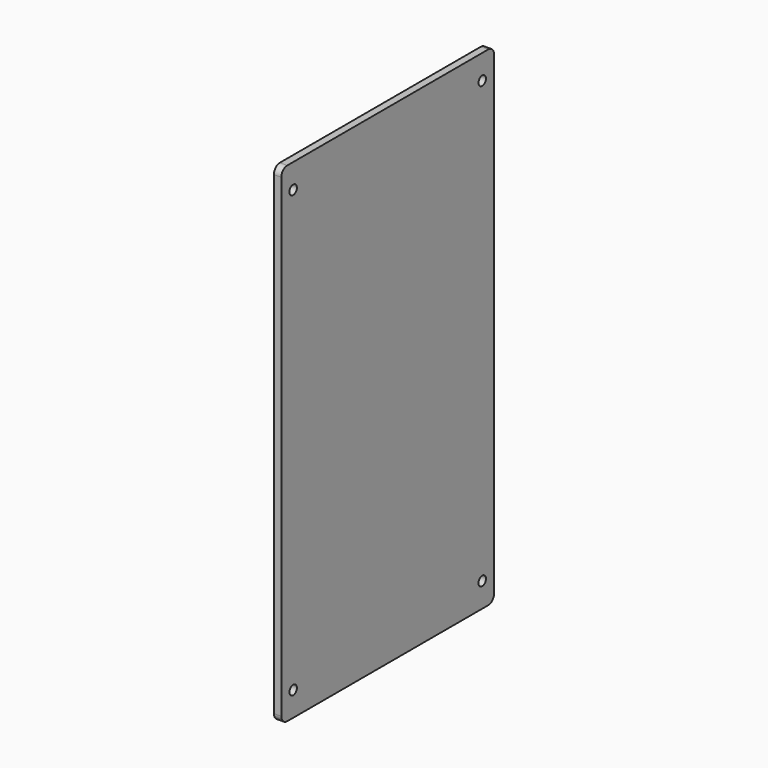
from build123d import *

# Parameters (mm, degrees)
F0_R     = 4
F1_DEPTH = 6.35


with BuildPart() as f1:
    # F0 (on Right) → F1 (new body)
    with BuildSketch(Plane.YZ):
        with BuildLine():
            Line((107.740174, 368.065851), (-107.397826, 368.065851))
            ThreePointArc((-107.397826, 368.065851), (-111.887954, 366.205979), (-113.747826, 361.715851))
            Line((-113.747826, 361.715851), (-113.747826, -44.684149))
            ThreePointArc((-113.747826, -44.684149), (-111.887954, -49.174277), (-107.397826, -51.034149))
            Line((-107.397826, -51.034149), (107.740174, -51.034149))
            ThreePointArc((107.740174, -51.034149), (112.230302, -49.174277), (114.090174, -44.684149))
            Line((114.090174, -44.684149), (114.090174, 361.715851))
            ThreePointArc((114.090174, 361.715851), (112.230302, 366.205979), (107.740174, 368.065851))
        make_face()
        with Locations((-101.047826, -30.067328)):
            Circle(F0_R, mode=Mode.SUBTRACT)
        with Locations((101.390174, -30.086907)):
            Circle(F0_R, mode=Mode.SUBTRACT)
        with Locations((-101.047826, 347.110851)):
            Circle(F0_R, mode=Mode.SUBTRACT)
        with Locations((101.390174, 347.110851)):
            Circle(F0_R, mode=Mode.SUBTRACT)
    extrude(amount=F1_DEPTH)


solid = f1.part
